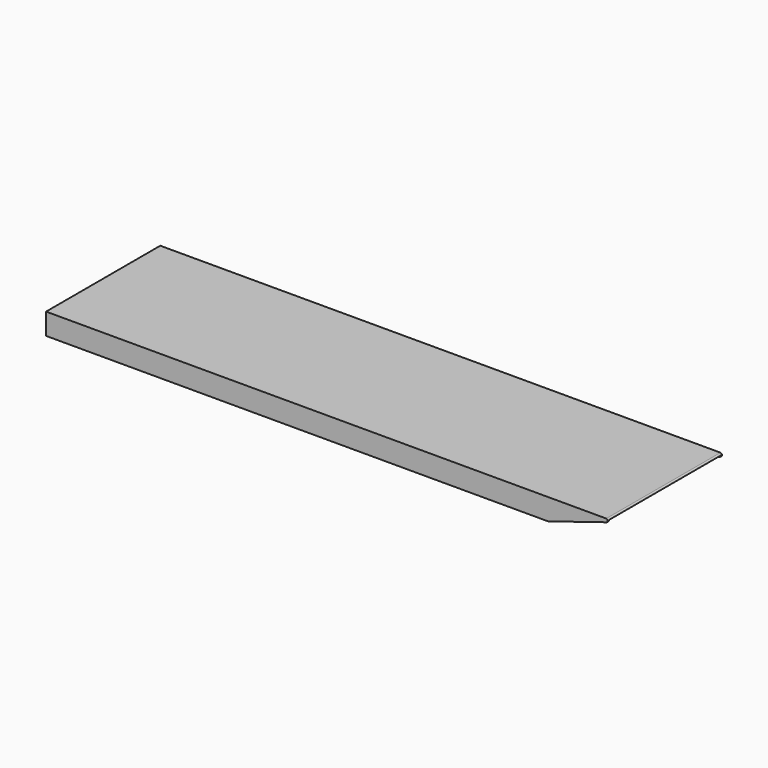
from build123d import *

# Parameters (mm, degrees)
F1_DEPTH = 800
F3_DEPTH = 250


with BuildPart() as f1:
    # F0 (on Right) → F1 (new body)
    with BuildSketch(Plane.YZ):
        Polygon((-103.291841, -39.223689), (-91.291841, -39.223689), (-91.291841, -37.223689), (-101.291841, -37.223689), (-101.291841, -11.223689), (94.708159, -11.223689), (94.708159, -37.223689), (84.708159, -37.223689), (84.708159, -39.223689), (96.708159, -39.223689), (96.708159, -9.223689), (-103.291841, -9.223689), align=None)
    extrude(amount=-F1_DEPTH)

    # F2 (on face) → F3 (cut)
    with BuildSketch(Plane.XZ.offset(103.291841)):
        with BuildLine():
            ThreePointArc((-15, -9.223689), (-12.922566, -11.287448), (-14.532225, -13.733636))
            Line((-14.532225, -13.733636), (-96.667827, -39.223689))
            Line((-96.667827, -39.223689), (0, -39.223689))
            Line((0, -39.223689), (0, -9.223689))
            Line((0, -9.223689), (-15, -9.223689))
        make_face()
    extrude(amount=-F3_DEPTH, mode=Mode.SUBTRACT)


solid = f1.part
